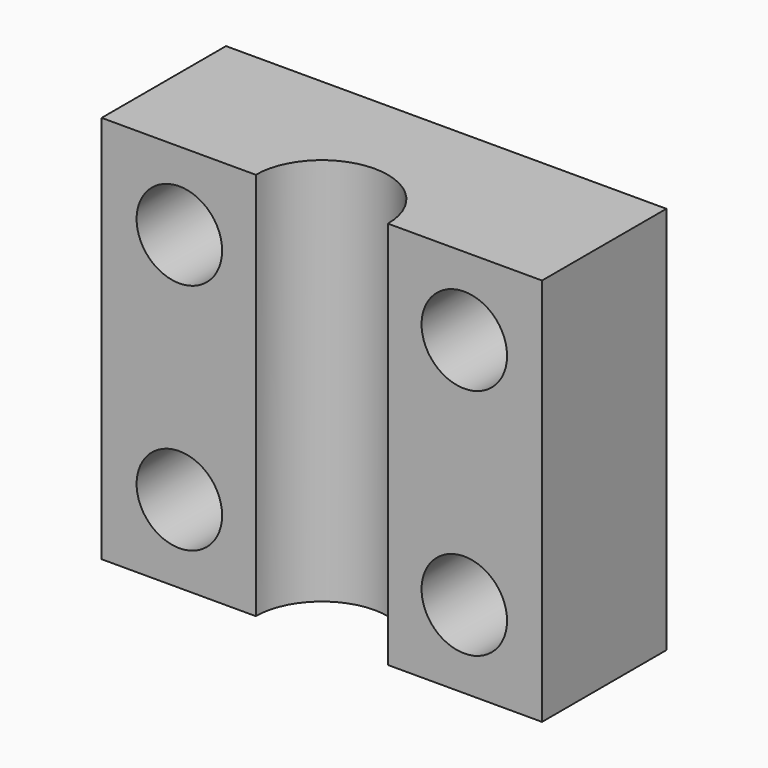
from build123d import *

# Parameters (mm, degrees)
PAD_DEPTH    = 15
SKETCH001_R  = 1.65
POCKET_DEPTH = 6.001


with BuildPart() as part:
    # Sketch → Pad (new body)
    with BuildSketch(Plane.XY):
        with BuildLine():
            ThreePointArc((2.55, 0), (0, 2.55), (-2.55, 0))
            Line((-2.55, 0), (-8.5, 0))
            Line((-8.5, 0), (-8.5, 6))
            Line((-8.5, 6), (8.5, 6))
            Line((8.5, 6), (8.5, 0))
            Line((2.55, 0), (8.5, 0))
        make_face()
    extrude(amount=PAD_DEPTH)

    # Sketch001 → Pocket (cut, through all)
    with BuildSketch(Plane.XZ):
        with Locations((-5.5, 3)):
            Circle(SKETCH001_R)
        with Locations((-5.5, 12)):
            Circle(SKETCH001_R)
        with Locations((5.5, 12)):
            Circle(SKETCH001_R)
        with Locations((5.5, 3)):
            Circle(SKETCH001_R)
    extrude(amount=-POCKET_DEPTH, mode=Mode.SUBTRACT)


solid = part.part
